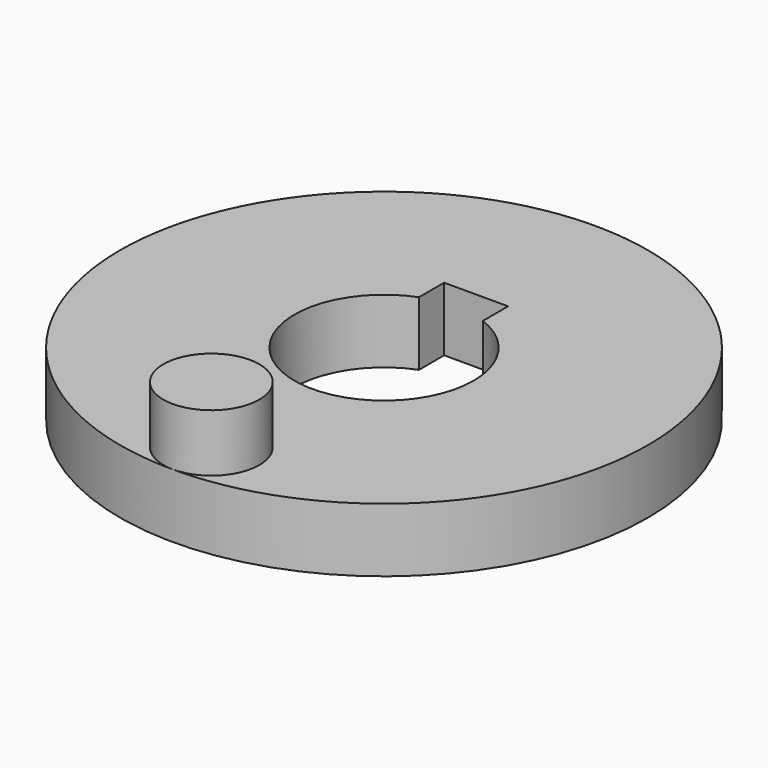
from build123d import *

# Parameters (mm, degrees)
F0_R     = 20.625
F1_DEPTH = 5
F3_R     = 3.75
F4_DEPTH = 4.5


with BuildPart() as f1:
    # F0 (on Top) → F1 (new body)
    with BuildSketch(Plane.XY):
        Circle(F0_R)
        with BuildLine():
            ThreePointArc((2.5, 6.538348), (5.766281, 3.968627), (7, 0))
            ThreePointArc((7, 0), (-3.968627, -5.766281), (-2.5, 6.538348))
            Line((-2.5, 6.538348), (-2.5, 9))
            Line((-2.5, 9), (2.5, 9))
            Line((2.5, 9), (2.5, 6.538348))
        make_face(mode=Mode.SUBTRACT)
    extrude(amount=F1_DEPTH)

    # F3 (on face) → F4 (join)
    with BuildSketch(Plane.XY.offset(5)):
        with Locations((0, -16.868537)):
            Circle(F3_R)
    extrude(amount=F4_DEPTH)


solid = f1.part
